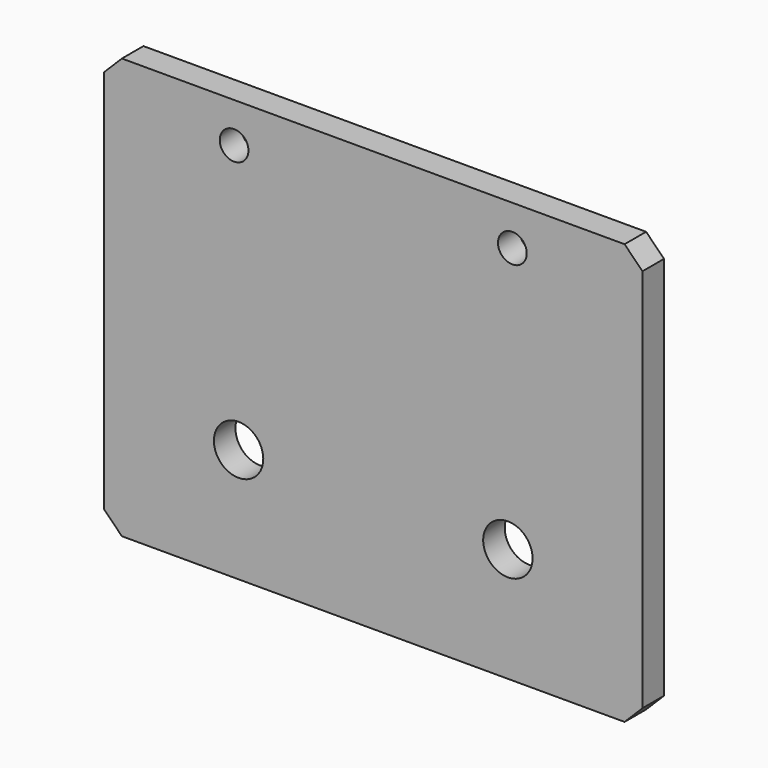
from build123d import *

# Parameters (mm, degrees)
F0_W     = 60
F0_H     = 46.85
F0_R     = 2.75
F0_R_2   = 1.6
F1_DEPTH = 3
F2_SIZE  = 2


with BuildPart() as f1:
    # F0 (on Front) → F1 (new body)
    with BuildSketch(Plane.XZ):
        with Locations((30, 23.425)):
            Rectangle(F0_W, F0_H)
        with Locations((15, 12.7)):
            Circle(F0_R, mode=Mode.SUBTRACT)
        with Locations((45, 12.7)):
            Circle(F0_R, mode=Mode.SUBTRACT)
        with Locations((14.5, 42.4)):
            Circle(F0_R_2, mode=Mode.SUBTRACT)
        with Locations((45.5, 42.4)):
            Circle(F0_R_2, mode=Mode.SUBTRACT)
    extrude(amount=-F1_DEPTH)

    # F2
    f2_edges = [f1.edges().sort_by_distance(p)[0] for p in [
        (0, 1.5, 46.85),
        (0, 1.5, 0),
        (60, 1.5, 0),
        (60, 1.5, 46.85),
    ]]
    chamfer(f2_edges, length=F2_SIZE)


solid = f1.part
